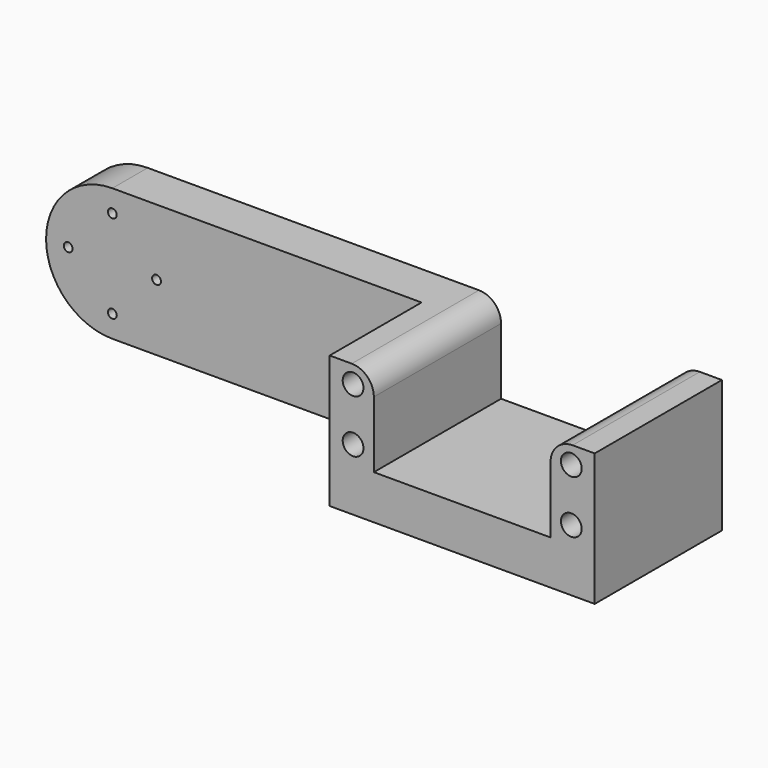
from build123d import *

# Parameters (mm, degrees)
F0_R     = 1
F0_R_2   = 2.35
F1_DEPTH = 36
F2_W     = 275.678707
F2_H     = 30
F3_DEPTH = 26
F4_R     = 5


with BuildPart() as f1:
    # F0 (on Front) → F1 (new body)
    with BuildSketch(Plane.XZ):
        with BuildLine():
            Line((70, 5), (-10, 5))
            ThreePointArc((-10, 5), (-25, -10), (-10, -25))
            Line((-10, -25), (120, -25))
            Line((120, -25), (120, 5))
            Line((120, 5), (110, 5))
            Line((110, 5), (110, -15))
            Line((110, -15), (70, -15))
            Line((70, -15), (70, 5))
        make_face()
        with Locations((-10, -20)):
            Circle(F0_R, mode=Mode.SUBTRACT)
        with Locations((65.3, -11)):
            Circle(F0_R_2, mode=Mode.SUBTRACT)
        with Locations((114.7, -11)):
            Circle(F0_R_2, mode=Mode.SUBTRACT)
        with Locations((-20, -10)):
            Circle(F0_R, mode=Mode.SUBTRACT)
        with Locations((0, -10)):
            Circle(F0_R, mode=Mode.SUBTRACT)
        with Locations((-10, 0)):
            Circle(F0_R, mode=Mode.SUBTRACT)
        with Locations((65.3, 1)):
            Circle(F0_R_2, mode=Mode.SUBTRACT)
        with Locations((114.7, 1)):
            Circle(F0_R_2, mode=Mode.SUBTRACT)
    extrude(amount=F1_DEPTH)

    # F2 (on face) → F3 (cut)
    with BuildSketch(Plane.XZ.offset(36)):
        with Locations((-77.839354, -10)):
            Rectangle(F2_W, F2_H)
    extrude(amount=-F3_DEPTH, mode=Mode.SUBTRACT)

    # F4
    f4_edges = [f1.edges().sort_by_distance(p)[0] for p in [
        (110, -18, 5),
        (70, -18, 5),
    ]]
    fillet(f4_edges, radius=F4_R)


solid = f1.part
